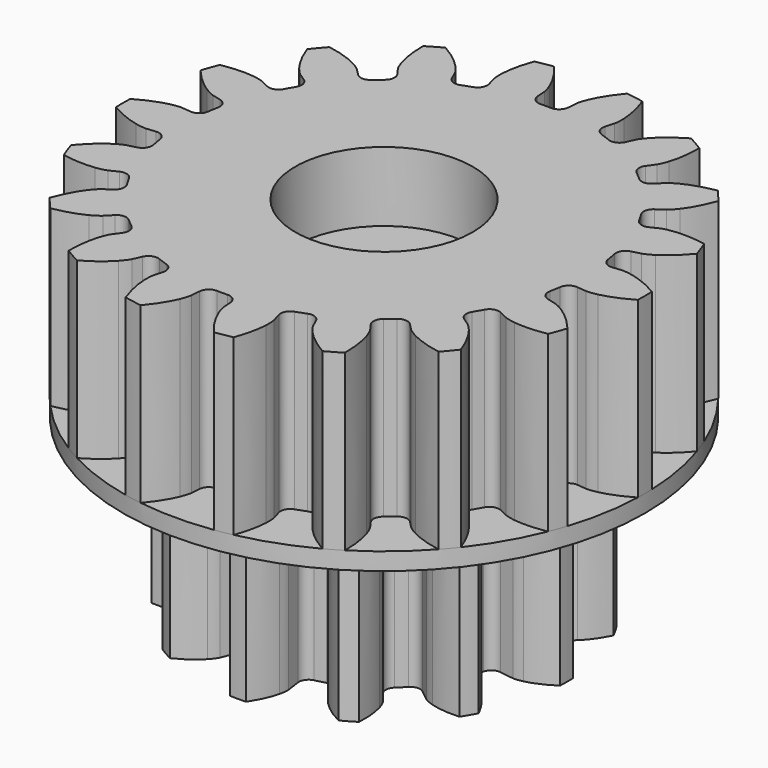
from build123d import *

# Parameters (mm, degrees)
PAD006_DEPTH    = 10
SKETCH009_R     = 15
PAD004_DEPTH    = 1
PAD005_DEPTH    = 10
SKETCH010_R     = 1.7
POCKET005_DEPTH = 16.7
SKETCH011_R     = 5.1
POCKET006_DEPTH = 4
SKETCH012_R     = 5.1
POCKET007_DEPTH = 4


with BuildPart() as pad004:
    # InvoluteGear001 → Pad006 (new body)
    with BuildSketch(Plane.XY):
        with BuildLine():
            Line((7.585543, -1.113908), (8.391342, -1.230997))
            add(Edge.make_bspline(
                [(8.391342, -1.230997), (8.453372, -1.235413), (8.639606, -1.239539), (8.952693, -1.168255)],
                knots=[0, 0, 0, 0, 1, 1, 1, 1], degree=3))
            add(Edge.make_bspline(
                [(8.952693, -1.168255), (9.32537, -1.081215), (9.856035, -0.88794), (10.49177, -0.464635)],
                knots=[0, 0, 0, 0, 1, 1, 1, 1], degree=3))
            ThreePointArc((10.49177, -0.464635), (10.502056, 0), (10.49177, 0.464635))
            add(Edge.make_bspline(
                [(10.49177, 0.464635), (9.856035, 0.88794), (9.32537, 1.081215), (8.952693, 1.168255)],
                knots=[0, 0, 0, 0, 1, 1, 1, 1], degree=3))
            add(Edge.make_bspline(
                [(8.952693, 1.168255), (8.639606, 1.239539), (8.453372, 1.235413), (8.391342, 1.230997)],
                knots=[0, 0, 0, 0, 1, 1, 1, 1], degree=3))
            Line((8.391342, 1.230997), (7.585543, 1.113908))
            ThreePointArc((7.585543, 1.113908), (7.1854, 1.20674), (6.955061, 1.546852))
            ThreePointArc((6.955061, 1.546852), (6.882222, 1.844086), (6.796685, 2.137918))
            ThreePointArc((6.796685, 2.137918), (6.826109, 2.547633), (7.126227, 2.828099))
            Line((7.126227, 2.828099), (7.882613, 3.129596))
            add(Edge.make_bspline(
                [(7.882613, 3.129596), (7.938542, 3.156787), (8.101888, 3.246331), (8.337387, 3.464608)],
                knots=[0, 0, 0, 0, 1, 1, 1, 1], degree=3))
            add(Edge.make_bspline(
                [(8.337387, 3.464608), (8.616615, 3.726326), (8.979547, 4.159039), (9.318457, 4.8435)],
                knots=[0, 0, 0, 0, 1, 1, 1, 1], degree=3))
            ThreePointArc((9.318457, 4.8435), (9.095047, 5.251028), (8.853822, 5.648271))
            add(Edge.make_bspline(
                [(8.853822, 5.648271), (8.091607, 5.696996), (7.5354, 5.599044), (7.169132, 5.488085)],
                knots=[0, 0, 0, 0, 1, 1, 1, 1], degree=3))
            add(Edge.make_bspline(
                [(7.169132, 5.488085), (6.862349, 5.393276), (6.703128, 5.296585), (6.651617, 5.261745)],
                knots=[0, 0, 0, 0, 1, 1, 1, 1], degree=3))
            Line((6.651617, 5.261745), (6.012319, 4.757444))
            ThreePointArc((6.012319, 4.757444), (5.619369, 4.637767), (5.249834, 4.817143))
            ThreePointArc((5.249834, 4.817143), (5.038136, 5.038136), (4.817143, 5.249834))
            ThreePointArc((4.817143, 5.249834), (4.637767, 5.619369), (4.757444, 6.012319))
            Line((4.757444, 6.012319), (5.261745, 6.651617))
            add(Edge.make_bspline(
                [(5.261745, 6.651617), (5.296585, 6.703128), (5.393276, 6.862349), (5.488085, 7.169132)],
                knots=[0, 0, 0, 0, 1, 1, 1, 1], degree=3))
            add(Edge.make_bspline(
                [(5.488085, 7.169132), (5.599044, 7.5354), (5.696996, 8.091607), (5.648271, 8.853822)],
                knots=[0, 0, 0, 0, 1, 1, 1, 1], degree=3))
            ThreePointArc((5.648271, 8.853822), (5.251028, 9.095047), (4.8435, 9.318457))
            add(Edge.make_bspline(
                [(4.8435, 9.318457), (4.159039, 8.979547), (3.726326, 8.616615), (3.464608, 8.337387)],
                knots=[0, 0, 0, 0, 1, 1, 1, 1], degree=3))
            add(Edge.make_bspline(
                [(3.464608, 8.337387), (3.246331, 8.101888), (3.156787, 7.938542), (3.129596, 7.882613)],
                knots=[0, 0, 0, 0, 1, 1, 1, 1], degree=3))
            Line((3.129596, 7.882613), (2.828099, 7.126227))
            ThreePointArc((2.828099, 7.126227), (2.547633, 6.826109), (2.137918, 6.796685))
            ThreePointArc((2.137918, 6.796685), (1.844086, 6.882222), (1.546852, 6.955061))
            ThreePointArc((1.546852, 6.955061), (1.20674, 7.1854), (1.113908, 7.585543))
            Line((1.113908, 7.585543), (1.230997, 8.391342))
            add(Edge.make_bspline(
                [(1.230997, 8.391342), (1.235413, 8.453372), (1.239539, 8.639606), (1.168255, 8.952693)],
                knots=[0, 0, 0, 0, 1, 1, 1, 1], degree=3))
            add(Edge.make_bspline(
                [(1.168255, 8.952693), (1.081215, 9.32537), (0.88794, 9.856035), (0.464635, 10.49177)],
                knots=[0, 0, 0, 0, 1, 1, 1, 1], degree=3))
            ThreePointArc((0.464635, 10.49177), (0, 10.502056), (-0.464635, 10.49177))
            add(Edge.make_bspline(
                [(-0.464635, 10.49177), (-0.88794, 9.856035), (-1.081215, 9.32537), (-1.168255, 8.952693)],
                knots=[0, 0, 0, 0, 1, 1, 1, 1], degree=3))
            add(Edge.make_bspline(
                [(-1.168255, 8.952693), (-1.239539, 8.639606), (-1.235413, 8.453372), (-1.230997, 8.391342)],
                knots=[0, 0, 0, 0, 1, 1, 1, 1], degree=3))
            Line((-1.230997, 8.391342), (-1.113908, 7.585543))
            ThreePointArc((-1.113908, 7.585543), (-1.20674, 7.1854), (-1.546852, 6.955061))
            ThreePointArc((-1.546852, 6.955061), (-1.844086, 6.882222), (-2.137918, 6.796685))
            ThreePointArc((-2.137918, 6.796685), (-2.547633, 6.826109), (-2.828099, 7.126227))
            Line((-2.828099, 7.126227), (-3.129596, 7.882613))
            add(Edge.make_bspline(
                [(-3.129596, 7.882613), (-3.156787, 7.938542), (-3.246331, 8.101888), (-3.464608, 8.337387)],
                knots=[0, 0, 0, 0, 1, 1, 1, 1], degree=3))
            add(Edge.make_bspline(
                [(-3.464608, 8.337387), (-3.726326, 8.616615), (-4.159039, 8.979547), (-4.8435, 9.318457)],
                knots=[0, 0, 0, 0, 1, 1, 1, 1], degree=3))
            ThreePointArc((-4.8435, 9.318457), (-5.251028, 9.095047), (-5.648271, 8.853822))
            add(Edge.make_bspline(
                [(-5.648271, 8.853822), (-5.696996, 8.091607), (-5.599044, 7.5354), (-5.488085, 7.169132)],
                knots=[0, 0, 0, 0, 1, 1, 1, 1], degree=3))
            add(Edge.make_bspline(
                [(-5.488085, 7.169132), (-5.393276, 6.862349), (-5.296585, 6.703128), (-5.261745, 6.651617)],
                knots=[0, 0, 0, 0, 1, 1, 1, 1], degree=3))
            Line((-5.261745, 6.651617), (-4.757444, 6.012319))
            ThreePointArc((-4.757444, 6.012319), (-4.637767, 5.619369), (-4.817143, 5.249834))
            ThreePointArc((-4.817143, 5.249834), (-5.038136, 5.038136), (-5.249834, 4.817143))
            ThreePointArc((-5.249834, 4.817143), (-5.619369, 4.637767), (-6.012319, 4.757444))
            Line((-6.012319, 4.757444), (-6.651617, 5.261745))
            add(Edge.make_bspline(
                [(-6.651617, 5.261745), (-6.703128, 5.296585), (-6.862349, 5.393276), (-7.169132, 5.488085)],
                knots=[0, 0, 0, 0, 1, 1, 1, 1], degree=3))
            add(Edge.make_bspline(
                [(-7.169132, 5.488085), (-7.5354, 5.599044), (-8.091607, 5.696996), (-8.853822, 5.648271)],
                knots=[0, 0, 0, 0, 1, 1, 1, 1], degree=3))
            ThreePointArc((-8.853822, 5.648271), (-9.095047, 5.251028), (-9.318457, 4.8435))
            add(Edge.make_bspline(
                [(-9.318457, 4.8435), (-8.979547, 4.159039), (-8.616615, 3.726326), (-8.337387, 3.464608)],
                knots=[0, 0, 0, 0, 1, 1, 1, 1], degree=3))
            add(Edge.make_bspline(
                [(-8.337387, 3.464608), (-8.101888, 3.246331), (-7.938542, 3.156787), (-7.882613, 3.129596)],
                knots=[0, 0, 0, 0, 1, 1, 1, 1], degree=3))
            Line((-7.882613, 3.129596), (-7.126227, 2.828099))
            ThreePointArc((-7.126227, 2.828099), (-6.826109, 2.547633), (-6.796685, 2.137918))
            ThreePointArc((-6.796685, 2.137918), (-6.882222, 1.844086), (-6.955061, 1.546852))
            ThreePointArc((-6.955061, 1.546852), (-7.1854, 1.20674), (-7.585543, 1.113908))
            Line((-7.585543, 1.113908), (-8.391342, 1.230997))
            add(Edge.make_bspline(
                [(-8.391342, 1.230997), (-8.453372, 1.235413), (-8.639606, 1.239539), (-8.952693, 1.168255)],
                knots=[0, 0, 0, 0, 1, 1, 1, 1], degree=3))
            add(Edge.make_bspline(
                [(-8.952693, 1.168255), (-9.32537, 1.081215), (-9.856035, 0.88794), (-10.49177, 0.464635)],
                knots=[0, 0, 0, 0, 1, 1, 1, 1], degree=3))
            ThreePointArc((-10.49177, 0.464635), (-10.502056, 0), (-10.49177, -0.464635))
            add(Edge.make_bspline(
                [(-10.49177, -0.464635), (-9.856035, -0.88794), (-9.32537, -1.081215), (-8.952693, -1.168255)],
                knots=[0, 0, 0, 0, 1, 1, 1, 1], degree=3))
            add(Edge.make_bspline(
                [(-8.952693, -1.168255), (-8.639606, -1.239539), (-8.453372, -1.235413), (-8.391342, -1.230997)],
                knots=[0, 0, 0, 0, 1, 1, 1, 1], degree=3))
            Line((-8.391342, -1.230997), (-7.585543, -1.113908))
            ThreePointArc((-7.585543, -1.113908), (-7.1854, -1.20674), (-6.955061, -1.546852))
            ThreePointArc((-6.955061, -1.546852), (-6.882222, -1.844086), (-6.796685, -2.137918))
            ThreePointArc((-6.796685, -2.137918), (-6.826109, -2.547633), (-7.126227, -2.828099))
            Line((-7.126227, -2.828099), (-7.882613, -3.129596))
            add(Edge.make_bspline(
                [(-7.882613, -3.129596), (-7.938542, -3.156787), (-8.101888, -3.246331), (-8.337387, -3.464608)],
                knots=[0, 0, 0, 0, 1, 1, 1, 1], degree=3))
            add(Edge.make_bspline(
                [(-8.337387, -3.464608), (-8.616615, -3.726326), (-8.979547, -4.159039), (-9.318457, -4.8435)],
                knots=[0, 0, 0, 0, 1, 1, 1, 1], degree=3))
            ThreePointArc((-9.318457, -4.8435), (-9.095047, -5.251028), (-8.853822, -5.648271))
            add(Edge.make_bspline(
                [(-8.853822, -5.648271), (-8.091607, -5.696996), (-7.5354, -5.599044), (-7.169132, -5.488085)],
                knots=[0, 0, 0, 0, 1, 1, 1, 1], degree=3))
            add(Edge.make_bspline(
                [(-7.169132, -5.488085), (-6.862349, -5.393276), (-6.703128, -5.296585), (-6.651617, -5.261745)],
                knots=[0, 0, 0, 0, 1, 1, 1, 1], degree=3))
            Line((-6.651617, -5.261745), (-6.012319, -4.757444))
            ThreePointArc((-6.012319, -4.757444), (-5.619369, -4.637767), (-5.249834, -4.817143))
            ThreePointArc((-5.249834, -4.817143), (-5.038136, -5.038136), (-4.817143, -5.249834))
            ThreePointArc((-4.817143, -5.249834), (-4.637767, -5.619369), (-4.757444, -6.012319))
            Line((-4.757444, -6.012319), (-5.261745, -6.651617))
            add(Edge.make_bspline(
                [(-5.261745, -6.651617), (-5.296585, -6.703128), (-5.393276, -6.862349), (-5.488085, -7.169132)],
                knots=[0, 0, 0, 0, 1, 1, 1, 1], degree=3))
            add(Edge.make_bspline(
                [(-5.488085, -7.169132), (-5.599044, -7.5354), (-5.696996, -8.091607), (-5.648271, -8.853822)],
                knots=[0, 0, 0, 0, 1, 1, 1, 1], degree=3))
            ThreePointArc((-5.648271, -8.853822), (-5.251028, -9.095047), (-4.8435, -9.318457))
            add(Edge.make_bspline(
                [(-4.8435, -9.318457), (-4.159039, -8.979547), (-3.726326, -8.616615), (-3.464608, -8.337387)],
                knots=[0, 0, 0, 0, 1, 1, 1, 1], degree=3))
            add(Edge.make_bspline(
                [(-3.464608, -8.337387), (-3.246331, -8.101888), (-3.156787, -7.938542), (-3.129596, -7.882613)],
                knots=[0, 0, 0, 0, 1, 1, 1, 1], degree=3))
            Line((-3.129596, -7.882613), (-2.828099, -7.126227))
            ThreePointArc((-2.828099, -7.126227), (-2.547633, -6.826109), (-2.137918, -6.796685))
            ThreePointArc((-2.137918, -6.796685), (-1.844086, -6.882222), (-1.546852, -6.955061))
            ThreePointArc((-1.546852, -6.955061), (-1.20674, -7.1854), (-1.113908, -7.585543))
            Line((-1.113908, -7.585543), (-1.230997, -8.391342))
            add(Edge.make_bspline(
                [(-1.230997, -8.391342), (-1.235413, -8.453372), (-1.239539, -8.639606), (-1.168255, -8.952693)],
                knots=[0, 0, 0, 0, 1, 1, 1, 1], degree=3))
            add(Edge.make_bspline(
                [(-1.168255, -8.952693), (-1.081215, -9.32537), (-0.88794, -9.856035), (-0.464635, -10.49177)],
                knots=[0, 0, 0, 0, 1, 1, 1, 1], degree=3))
            ThreePointArc((-0.464635, -10.49177), (0, -10.502056), (0.464635, -10.49177))
            add(Edge.make_bspline(
                [(0.464635, -10.49177), (0.88794, -9.856035), (1.081215, -9.32537), (1.168255, -8.952693)],
                knots=[0, 0, 0, 0, 1, 1, 1, 1], degree=3))
            add(Edge.make_bspline(
                [(1.168255, -8.952693), (1.239539, -8.639606), (1.235413, -8.453372), (1.230997, -8.391342)],
                knots=[0, 0, 0, 0, 1, 1, 1, 1], degree=3))
            Line((1.230997, -8.391342), (1.113908, -7.585543))
            ThreePointArc((1.113908, -7.585543), (1.20674, -7.1854), (1.546852, -6.955061))
            ThreePointArc((1.546852, -6.955061), (1.844086, -6.882222), (2.137918, -6.796685))
            ThreePointArc((2.137918, -6.796685), (2.547633, -6.826109), (2.828099, -7.126227))
            Line((2.828099, -7.126227), (3.129596, -7.882613))
            add(Edge.make_bspline(
                [(3.129596, -7.882613), (3.156787, -7.938542), (3.246331, -8.101888), (3.464608, -8.337387)],
                knots=[0, 0, 0, 0, 1, 1, 1, 1], degree=3))
            add(Edge.make_bspline(
                [(3.464608, -8.337387), (3.726326, -8.616615), (4.159039, -8.979547), (4.8435, -9.318457)],
                knots=[0, 0, 0, 0, 1, 1, 1, 1], degree=3))
            ThreePointArc((4.8435, -9.318457), (5.251028, -9.095047), (5.648271, -8.853822))
            add(Edge.make_bspline(
                [(5.648271, -8.853822), (5.696996, -8.091607), (5.599044, -7.5354), (5.488085, -7.169132)],
                knots=[0, 0, 0, 0, 1, 1, 1, 1], degree=3))
            add(Edge.make_bspline(
                [(5.488085, -7.169132), (5.393276, -6.862349), (5.296585, -6.703128), (5.261745, -6.651617)],
                knots=[0, 0, 0, 0, 1, 1, 1, 1], degree=3))
            Line((5.261745, -6.651617), (4.757444, -6.012319))
            ThreePointArc((4.757444, -6.012319), (4.637767, -5.619369), (4.817143, -5.249834))
            ThreePointArc((4.817143, -5.249834), (5.038136, -5.038136), (5.249834, -4.817143))
            ThreePointArc((5.249834, -4.817143), (5.619369, -4.637767), (6.012319, -4.757444))
            Line((6.012319, -4.757444), (6.651617, -5.261745))
            add(Edge.make_bspline(
                [(6.651617, -5.261745), (6.703128, -5.296585), (6.862349, -5.393276), (7.169132, -5.488085)],
                knots=[0, 0, 0, 0, 1, 1, 1, 1], degree=3))
            add(Edge.make_bspline(
                [(7.169132, -5.488085), (7.5354, -5.599044), (8.091607, -5.696996), (8.853822, -5.648271)],
                knots=[0, 0, 0, 0, 1, 1, 1, 1], degree=3))
            ThreePointArc((8.853822, -5.648271), (9.095047, -5.251028), (9.318457, -4.8435))
            add(Edge.make_bspline(
                [(9.318457, -4.8435), (8.979547, -4.159039), (8.616615, -3.726326), (8.337387, -3.464608)],
                knots=[0, 0, 0, 0, 1, 1, 1, 1], degree=3))
            add(Edge.make_bspline(
                [(8.337387, -3.464608), (8.101888, -3.246331), (7.938542, -3.156787), (7.882613, -3.129596)],
                knots=[0, 0, 0, 0, 1, 1, 1, 1], degree=3))
            Line((7.882613, -3.129596), (7.126227, -2.828099))
            ThreePointArc((7.126227, -2.828099), (6.826109, -2.547633), (6.796685, -2.137918))
            ThreePointArc((6.796685, -2.137918), (6.882222, -1.844086), (6.955061, -1.546852))
            ThreePointArc((6.955061, -1.546852), (7.1854, -1.20674), (7.585543, -1.113908))
        make_face()
    extrude(amount=-PAD006_DEPTH)

    # Sketch009 → Pad004 (new body)
    with BuildSketch(Plane.XY):
        Circle(SKETCH009_R)
    extrude(amount=PAD004_DEPTH)


with BuildPart() as pocket007:
    # InvoluteGear → Pad005 (new body)
    with BuildSketch(Plane.XY.offset(1)):
        with BuildLine():
            Line((12.111023, -1.241717), (12.645761, -1.295402))
            add(Edge.make_bspline(
                [(12.645761, -1.295402), (12.714302, -1.298033), (12.920518, -1.29727), (13.264938, -1.221824)],
                knots=[0, 0, 0, 0, 1, 1, 1, 1], degree=3))
            add(Edge.make_bspline(
                [(13.264938, -1.221824), (13.676607, -1.130119), (14.26795, -0.932555), (14.993012, -0.510488)],
                knots=[0, 0, 0, 0, 1, 1, 1, 1], degree=3))
            ThreePointArc((14.993012, -0.510488), (15.001701, 0), (14.993012, 0.510488))
            add(Edge.make_bspline(
                [(14.993012, 0.510488), (14.26795, 0.932555), (13.676607, 1.130119), (13.264938, 1.221824)],
                knots=[0, 0, 0, 0, 1, 1, 1, 1], degree=3))
            add(Edge.make_bspline(
                [(13.264938, 1.221824), (12.920518, 1.29727), (12.714302, 1.298033), (12.645761, 1.295402)],
                knots=[0, 0, 0, 0, 1, 1, 1, 1], degree=3))
            Line((12.645761, 1.295402), (12.111023, 1.241717))
            ThreePointArc((12.111023, 1.241717), (11.708936, 1.356787), (11.497414, 1.717583))
            ThreePointArc((11.497414, 1.717583), (11.44839, 2.01866), (11.391483, 2.318347))
            ThreePointArc((11.391483, 2.318347), (11.46685, 2.729729), (11.805332, 2.975381))
            Line((11.805332, 2.975381), (12.326182, 3.107825))
            add(Edge.make_bspline(
                [(12.326182, 3.107825), (12.391489, 3.128796), (12.585008, 3.200042), (12.882853, 3.388737)],
                knots=[0, 0, 0, 0, 1, 1, 1, 1], degree=3))
            add(Edge.make_bspline(
                [(12.882853, 3.388737), (13.238331, 3.615711), (13.72644, 4.003611), (14.26342, 4.64821)],
                knots=[0, 0, 0, 0, 1, 1, 1, 1], degree=3))
            ThreePointArc((14.26342, 4.64821), (14.096988, 5.130884), (13.914226, 5.607614))
            add(Edge.make_bspline(
                [(13.914226, 5.607614), (13.088535, 5.756242), (12.465284, 5.73964), (12.047076, 5.685015)],
                knots=[0, 0, 0, 0, 1, 1, 1, 1], degree=3))
            add(Edge.make_bspline(
                [(12.047076, 5.685015), (11.697623, 5.638113), (11.503582, 5.568299), (11.440074, 5.542385)],
                knots=[0, 0, 0, 0, 1, 1, 1, 1], degree=3))
            Line((11.440074, 5.542385), (10.955947, 5.309046))
            ThreePointArc((10.955947, 5.309046), (10.538753, 5.279655), (10.216587, 5.546347))
            ThreePointArc((10.216587, 5.546347), (10.067545, 5.8125), (9.911571, 6.074651))
            ThreePointArc((9.911571, 6.074651), (9.841692, 6.487), (10.075743, 6.833605))
            Line((10.075743, 6.833605), (10.519883, 7.136202))
            add(Edge.make_bspline(
                [(10.519883, 7.136202), (10.57408, 7.178245), (10.73156, 7.311383), (10.946905, 7.590566)],
                knots=[0, 0, 0, 0, 1, 1, 1, 1], degree=3))
            add(Edge.make_bspline(
                [(10.946905, 7.590566), (11.203316, 7.925433), (11.529319, 8.456883), (11.813449, 9.246266)],
                knots=[0, 0, 0, 0, 1, 1, 1, 1], degree=3))
            ThreePointArc((11.813449, 9.246266), (11.49197, 9.642908), (11.157178, 10.028379))
            add(Edge.make_bspline(
                [(11.157178, 10.028379), (10.330449, 9.885641), (9.750463, 9.656875), (9.376159, 9.462509)],
                knots=[0, 0, 0, 0, 1, 1, 1, 1], degree=3))
            add(Edge.make_bspline(
                [(9.376159, 9.462509), (9.063822, 9.298916), (8.905361, 9.166947), (8.854546, 9.120874)],
                knots=[0, 0, 0, 0, 1, 1, 1, 1], degree=3))
            Line((8.854546, 9.120874), (8.479422, 8.736026))
            ThreePointArc((8.479422, 8.736026), (8.09744, 8.565718), (7.703489, 8.70614))
            ThreePointArc((7.703489, 8.70614), (7.472406, 8.905267), (7.236177, 9.098261))
            ThreePointArc((7.236177, 9.098261), (7.02948, 9.461843), (7.13087, 9.867595))
            Line((7.13087, 9.867595), (7.444732, 10.303849))
            add(Edge.make_bspline(
                [(7.444732, 10.303849), (7.48128, 10.361892), (7.583728, 10.540862), (7.690599, 10.876861)],
                knots=[0, 0, 0, 0, 1, 1, 1, 1], degree=3))
            add(Edge.make_bspline(
                [(7.690599, 10.876861), (7.817015, 11.27923), (7.941592, 11.89013), (7.938602, 12.729085)],
                knots=[0, 0, 0, 0, 1, 1, 1, 1], degree=3))
            ThreePointArc((7.938602, 12.729085), (7.500851, 12.991854), (7.05441, 13.239573))
            add(Edge.make_bspline(
                [(7.05441, 13.239573), (6.326359, 12.822685), (5.859592, 12.409349), (5.574338, 12.098685)],
                knots=[0, 0, 0, 0, 1, 1, 1, 1], degree=3))
            add(Edge.make_bspline(
                [(5.574338, 12.098685), (5.33679, 11.838132), (5.233022, 11.659925), (5.201029, 11.599251)],
                knots=[0, 0, 0, 0, 1, 1, 1, 1], degree=3))
            Line((5.201029, 11.599251), (4.980153, 11.109313))
            ThreePointArc((4.980153, 11.109313), (4.679456, 10.81863), (4.261237, 10.815844))
            ThreePointArc((4.261237, 10.815844), (3.975984, 10.923927), (3.687994, 11.024488))
            ThreePointArc((3.687994, 11.024488), (3.36941, 11.295448), (3.32591, 11.711408))
            Line((3.32591, 11.711408), (3.471636, 12.228699))
            add(Edge.make_bspline(
                [(3.471636, 12.228699), (3.486128, 12.295742), (3.521186, 12.498958), (3.506694, 12.851246)],
                knots=[0, 0, 0, 0, 1, 1, 1, 1], degree=3))
            add(Edge.make_bspline(
                [(3.506694, 12.851246), (3.487868, 13.272586), (3.395991, 13.889252), (3.106242, 14.676589)],
                knots=[0, 0, 0, 0, 1, 1, 1, 1], degree=3))
            ThreePointArc((3.106242, 14.676589), (2.605018, 14.773792), (2.100777, 14.85388))
            add(Edge.make_bspline(
                [(2.100777, 14.85388), (1.559216, 14.213125), (1.261968, 13.665072), (1.100171, 13.275581)],
                knots=[0, 0, 0, 0, 1, 1, 1, 1], degree=3))
            add(Edge.make_bspline(
                [(1.100171, 13.275581), (0.966063, 12.949495), (0.929503, 12.746544), (0.920191, 12.678587)],
                knots=[0, 0, 0, 0, 1, 1, 1, 1], degree=3))
            Line((0.920191, 12.678587), (0.880204, 12.142652))
            ThreePointArc((0.880204, 12.142652), (0.697061, 11.766655), (0.305016, 11.620998))
            ThreePointArc((0.305016, 11.620998), (0, 11.625), (-0.305016, 11.620998))
            ThreePointArc((-0.305016, 11.620998), (-0.697061, 11.766655), (-0.880204, 12.142652))
            Line((-0.880204, 12.142652), (-0.920191, 12.678587))
            add(Edge.make_bspline(
                [(-0.920191, 12.678587), (-0.929503, 12.746544), (-0.966063, 12.949495), (-1.100171, 13.275581)],
                knots=[0, 0, 0, 0, 1, 1, 1, 1], degree=3))
            add(Edge.make_bspline(
                [(-1.100171, 13.275581), (-1.261968, 13.665072), (-1.559216, 14.213125), (-2.100777, 14.85388)],
                knots=[0, 0, 0, 0, 1, 1, 1, 1], degree=3))
            ThreePointArc((-2.100777, 14.85388), (-2.605018, 14.773792), (-3.106242, 14.676589))
            add(Edge.make_bspline(
                [(-3.106242, 14.676589), (-3.395991, 13.889252), (-3.487868, 13.272586), (-3.506694, 12.851246)],
                knots=[0, 0, 0, 0, 1, 1, 1, 1], degree=3))
            add(Edge.make_bspline(
                [(-3.506694, 12.851246), (-3.521186, 12.498958), (-3.486128, 12.295742), (-3.471636, 12.228699)],
                knots=[0, 0, 0, 0, 1, 1, 1, 1], degree=3))
            Line((-3.471636, 12.228699), (-3.32591, 11.711408))
            ThreePointArc((-3.32591, 11.711408), (-3.36941, 11.295448), (-3.687994, 11.024488))
            ThreePointArc((-3.687994, 11.024488), (-3.975984, 10.923927), (-4.261237, 10.815844))
            ThreePointArc((-4.261237, 10.815844), (-4.679456, 10.81863), (-4.980153, 11.109313))
            Line((-4.980153, 11.109313), (-5.201029, 11.599251))
            add(Edge.make_bspline(
                [(-5.201029, 11.599251), (-5.233022, 11.659925), (-5.33679, 11.838132), (-5.574338, 12.098685)],
                knots=[0, 0, 0, 0, 1, 1, 1, 1], degree=3))
            add(Edge.make_bspline(
                [(-5.574338, 12.098685), (-5.859592, 12.409349), (-6.326359, 12.822685), (-7.05441, 13.239573)],
                knots=[0, 0, 0, 0, 1, 1, 1, 1], degree=3))
            ThreePointArc((-7.05441, 13.239573), (-7.500851, 12.991854), (-7.938602, 12.729085))
            add(Edge.make_bspline(
                [(-7.938602, 12.729085), (-7.941592, 11.89013), (-7.817015, 11.27923), (-7.690599, 10.876861)],
                knots=[0, 0, 0, 0, 1, 1, 1, 1], degree=3))
            add(Edge.make_bspline(
                [(-7.690599, 10.876861), (-7.583728, 10.540862), (-7.48128, 10.361892), (-7.444732, 10.303849)],
                knots=[0, 0, 0, 0, 1, 1, 1, 1], degree=3))
            Line((-7.444732, 10.303849), (-7.13087, 9.867595))
            ThreePointArc((-7.13087, 9.867595), (-7.02948, 9.461843), (-7.236177, 9.098261))
            ThreePointArc((-7.236177, 9.098261), (-7.472406, 8.905267), (-7.703489, 8.70614))
            ThreePointArc((-7.703489, 8.70614), (-8.09744, 8.565718), (-8.479422, 8.736026))
            Line((-8.479422, 8.736026), (-8.854546, 9.120874))
            add(Edge.make_bspline(
                [(-8.854546, 9.120874), (-8.905361, 9.166947), (-9.063822, 9.298916), (-9.376159, 9.462509)],
                knots=[0, 0, 0, 0, 1, 1, 1, 1], degree=3))
            add(Edge.make_bspline(
                [(-9.376159, 9.462509), (-9.750463, 9.656875), (-10.330449, 9.885641), (-11.157178, 10.028379)],
                knots=[0, 0, 0, 0, 1, 1, 1, 1], degree=3))
            ThreePointArc((-11.157178, 10.028379), (-11.49197, 9.642908), (-11.813449, 9.246266))
            add(Edge.make_bspline(
                [(-11.813449, 9.246266), (-11.529319, 8.456883), (-11.203316, 7.925433), (-10.946905, 7.590566)],
                knots=[0, 0, 0, 0, 1, 1, 1, 1], degree=3))
            add(Edge.make_bspline(
                [(-10.946905, 7.590566), (-10.73156, 7.311383), (-10.57408, 7.178245), (-10.519883, 7.136202)],
                knots=[0, 0, 0, 0, 1, 1, 1, 1], degree=3))
            Line((-10.519883, 7.136202), (-10.075743, 6.833605))
            ThreePointArc((-10.075743, 6.833605), (-9.841692, 6.487), (-9.911571, 6.074651))
            ThreePointArc((-9.911571, 6.074651), (-10.067545, 5.8125), (-10.216587, 5.546347))
            ThreePointArc((-10.216587, 5.546347), (-10.538753, 5.279655), (-10.955947, 5.309046))
            Line((-10.955947, 5.309046), (-11.440074, 5.542385))
            add(Edge.make_bspline(
                [(-11.440074, 5.542385), (-11.503582, 5.568299), (-11.697623, 5.638113), (-12.047076, 5.685015)],
                knots=[0, 0, 0, 0, 1, 1, 1, 1], degree=3))
            add(Edge.make_bspline(
                [(-12.047076, 5.685015), (-12.465284, 5.73964), (-13.088535, 5.756242), (-13.914226, 5.607614)],
                knots=[0, 0, 0, 0, 1, 1, 1, 1], degree=3))
            ThreePointArc((-13.914226, 5.607614), (-14.096988, 5.130884), (-14.26342, 4.64821))
            add(Edge.make_bspline(
                [(-14.26342, 4.64821), (-13.72644, 4.003611), (-13.238331, 3.615711), (-12.882853, 3.388737)],
                knots=[0, 0, 0, 0, 1, 1, 1, 1], degree=3))
            add(Edge.make_bspline(
                [(-12.882853, 3.388737), (-12.585008, 3.200042), (-12.391489, 3.128796), (-12.326182, 3.107825)],
                knots=[0, 0, 0, 0, 1, 1, 1, 1], degree=3))
            Line((-12.326182, 3.107825), (-11.805332, 2.975381))
            ThreePointArc((-11.805332, 2.975381), (-11.46685, 2.729729), (-11.391483, 2.318347))
            ThreePointArc((-11.391483, 2.318347), (-11.44839, 2.01866), (-11.497414, 1.717583))
            ThreePointArc((-11.497414, 1.717583), (-11.708936, 1.356787), (-12.111023, 1.241717))
            Line((-12.111023, 1.241717), (-12.645761, 1.295402))
            add(Edge.make_bspline(
                [(-12.645761, 1.295402), (-12.714302, 1.298033), (-12.920518, 1.29727), (-13.264938, 1.221824)],
                knots=[0, 0, 0, 0, 1, 1, 1, 1], degree=3))
            add(Edge.make_bspline(
                [(-13.264938, 1.221824), (-13.676607, 1.130119), (-14.26795, 0.932555), (-14.993012, 0.510488)],
                knots=[0, 0, 0, 0, 1, 1, 1, 1], degree=3))
            ThreePointArc((-14.993012, 0.510488), (-15.001701, 0), (-14.993012, -0.510488))
            add(Edge.make_bspline(
                [(-14.993012, -0.510488), (-14.26795, -0.932555), (-13.676607, -1.130119), (-13.264938, -1.221824)],
                knots=[0, 0, 0, 0, 1, 1, 1, 1], degree=3))
            add(Edge.make_bspline(
                [(-13.264938, -1.221824), (-12.920518, -1.29727), (-12.714302, -1.298033), (-12.645761, -1.295402)],
                knots=[0, 0, 0, 0, 1, 1, 1, 1], degree=3))
            Line((-12.645761, -1.295402), (-12.111023, -1.241717))
            ThreePointArc((-12.111023, -1.241717), (-11.708936, -1.356787), (-11.497414, -1.717583))
            ThreePointArc((-11.497414, -1.717583), (-11.44839, -2.01866), (-11.391483, -2.318347))
            ThreePointArc((-11.391483, -2.318347), (-11.46685, -2.729729), (-11.805332, -2.975381))
            Line((-11.805332, -2.975381), (-12.326182, -3.107825))
            add(Edge.make_bspline(
                [(-12.326182, -3.107825), (-12.391489, -3.128796), (-12.585008, -3.200042), (-12.882853, -3.388737)],
                knots=[0, 0, 0, 0, 1, 1, 1, 1], degree=3))
            add(Edge.make_bspline(
                [(-12.882853, -3.388737), (-13.238331, -3.615711), (-13.72644, -4.003611), (-14.26342, -4.64821)],
                knots=[0, 0, 0, 0, 1, 1, 1, 1], degree=3))
            ThreePointArc((-14.26342, -4.64821), (-14.096988, -5.130884), (-13.914226, -5.607614))
            add(Edge.make_bspline(
                [(-13.914226, -5.607614), (-13.088535, -5.756242), (-12.465284, -5.73964), (-12.047076, -5.685015)],
                knots=[0, 0, 0, 0, 1, 1, 1, 1], degree=3))
            add(Edge.make_bspline(
                [(-12.047076, -5.685015), (-11.697623, -5.638113), (-11.503582, -5.568299), (-11.440074, -5.542385)],
                knots=[0, 0, 0, 0, 1, 1, 1, 1], degree=3))
            Line((-11.440074, -5.542385), (-10.955947, -5.309046))
            ThreePointArc((-10.955947, -5.309046), (-10.538753, -5.279655), (-10.216587, -5.546347))
            ThreePointArc((-10.216587, -5.546347), (-10.067545, -5.8125), (-9.911571, -6.074651))
            ThreePointArc((-9.911571, -6.074651), (-9.841692, -6.487), (-10.075743, -6.833605))
            Line((-10.075743, -6.833605), (-10.519883, -7.136202))
            add(Edge.make_bspline(
                [(-10.519883, -7.136202), (-10.57408, -7.178245), (-10.73156, -7.311383), (-10.946905, -7.590566)],
                knots=[0, 0, 0, 0, 1, 1, 1, 1], degree=3))
            add(Edge.make_bspline(
                [(-10.946905, -7.590566), (-11.203316, -7.925433), (-11.529319, -8.456883), (-11.813449, -9.246266)],
                knots=[0, 0, 0, 0, 1, 1, 1, 1], degree=3))
            ThreePointArc((-11.813449, -9.246266), (-11.49197, -9.642908), (-11.157178, -10.028379))
            add(Edge.make_bspline(
                [(-11.157178, -10.028379), (-10.330449, -9.885641), (-9.750463, -9.656875), (-9.376159, -9.462509)],
                knots=[0, 0, 0, 0, 1, 1, 1, 1], degree=3))
            add(Edge.make_bspline(
                [(-9.376159, -9.462509), (-9.063822, -9.298916), (-8.905361, -9.166947), (-8.854546, -9.120874)],
                knots=[0, 0, 0, 0, 1, 1, 1, 1], degree=3))
            Line((-8.854546, -9.120874), (-8.479422, -8.736026))
            ThreePointArc((-8.479422, -8.736026), (-8.09744, -8.565718), (-7.703489, -8.70614))
            ThreePointArc((-7.703489, -8.70614), (-7.472406, -8.905267), (-7.236177, -9.098261))
            ThreePointArc((-7.236177, -9.098261), (-7.02948, -9.461843), (-7.13087, -9.867595))
            Line((-7.13087, -9.867595), (-7.444732, -10.303849))
            add(Edge.make_bspline(
                [(-7.444732, -10.303849), (-7.48128, -10.361892), (-7.583728, -10.540862), (-7.690599, -10.876861)],
                knots=[0, 0, 0, 0, 1, 1, 1, 1], degree=3))
            add(Edge.make_bspline(
                [(-7.690599, -10.876861), (-7.817015, -11.27923), (-7.941592, -11.89013), (-7.938602, -12.729085)],
                knots=[0, 0, 0, 0, 1, 1, 1, 1], degree=3))
            ThreePointArc((-7.938602, -12.729085), (-7.500851, -12.991854), (-7.05441, -13.239573))
            add(Edge.make_bspline(
                [(-7.05441, -13.239573), (-6.326359, -12.822685), (-5.859592, -12.409349), (-5.574338, -12.098685)],
                knots=[0, 0, 0, 0, 1, 1, 1, 1], degree=3))
            add(Edge.make_bspline(
                [(-5.574338, -12.098685), (-5.33679, -11.838132), (-5.233022, -11.659925), (-5.201029, -11.599251)],
                knots=[0, 0, 0, 0, 1, 1, 1, 1], degree=3))
            Line((-5.201029, -11.599251), (-4.980153, -11.109313))
            ThreePointArc((-4.980153, -11.109313), (-4.679456, -10.81863), (-4.261237, -10.815844))
            ThreePointArc((-4.261237, -10.815844), (-3.975984, -10.923927), (-3.687994, -11.024488))
            ThreePointArc((-3.687994, -11.024488), (-3.36941, -11.295448), (-3.32591, -11.711408))
            Line((-3.32591, -11.711408), (-3.471636, -12.228699))
            add(Edge.make_bspline(
                [(-3.471636, -12.228699), (-3.486128, -12.295742), (-3.521186, -12.498958), (-3.506694, -12.851246)],
                knots=[0, 0, 0, 0, 1, 1, 1, 1], degree=3))
            add(Edge.make_bspline(
                [(-3.506694, -12.851246), (-3.487868, -13.272586), (-3.395991, -13.889252), (-3.106242, -14.676589)],
                knots=[0, 0, 0, 0, 1, 1, 1, 1], degree=3))
            ThreePointArc((-3.106242, -14.676589), (-2.605018, -14.773792), (-2.100777, -14.85388))
            add(Edge.make_bspline(
                [(-2.100777, -14.85388), (-1.559216, -14.213125), (-1.261968, -13.665072), (-1.100171, -13.275581)],
                knots=[0, 0, 0, 0, 1, 1, 1, 1], degree=3))
            add(Edge.make_bspline(
                [(-1.100171, -13.275581), (-0.966063, -12.949495), (-0.929503, -12.746544), (-0.920191, -12.678587)],
                knots=[0, 0, 0, 0, 1, 1, 1, 1], degree=3))
            Line((-0.920191, -12.678587), (-0.880204, -12.142652))
            ThreePointArc((-0.880204, -12.142652), (-0.697061, -11.766655), (-0.305016, -11.620998))
            ThreePointArc((-0.305016, -11.620998), (0, -11.625), (0.305016, -11.620998))
            ThreePointArc((0.305016, -11.620998), (0.697061, -11.766655), (0.880204, -12.142652))
            Line((0.880204, -12.142652), (0.920191, -12.678587))
            add(Edge.make_bspline(
                [(0.920191, -12.678587), (0.929503, -12.746544), (0.966063, -12.949495), (1.100171, -13.275581)],
                knots=[0, 0, 0, 0, 1, 1, 1, 1], degree=3))
            add(Edge.make_bspline(
                [(1.100171, -13.275581), (1.261968, -13.665072), (1.559216, -14.213125), (2.100777, -14.85388)],
                knots=[0, 0, 0, 0, 1, 1, 1, 1], degree=3))
            ThreePointArc((2.100777, -14.85388), (2.605018, -14.773792), (3.106242, -14.676589))
            add(Edge.make_bspline(
                [(3.106242, -14.676589), (3.395991, -13.889252), (3.487868, -13.272586), (3.506694, -12.851246)],
                knots=[0, 0, 0, 0, 1, 1, 1, 1], degree=3))
            add(Edge.make_bspline(
                [(3.506694, -12.851246), (3.521186, -12.498958), (3.486128, -12.295742), (3.471636, -12.228699)],
                knots=[0, 0, 0, 0, 1, 1, 1, 1], degree=3))
            Line((3.471636, -12.228699), (3.32591, -11.711408))
            ThreePointArc((3.32591, -11.711408), (3.36941, -11.295448), (3.687994, -11.024488))
            ThreePointArc((3.687994, -11.024488), (3.975984, -10.923927), (4.261237, -10.815844))
            ThreePointArc((4.261237, -10.815844), (4.679456, -10.81863), (4.980153, -11.109313))
            Line((4.980153, -11.109313), (5.201029, -11.599251))
            add(Edge.make_bspline(
                [(5.201029, -11.599251), (5.233022, -11.659925), (5.33679, -11.838132), (5.574338, -12.098685)],
                knots=[0, 0, 0, 0, 1, 1, 1, 1], degree=3))
            add(Edge.make_bspline(
                [(5.574338, -12.098685), (5.859592, -12.409349), (6.326359, -12.822685), (7.05441, -13.239573)],
                knots=[0, 0, 0, 0, 1, 1, 1, 1], degree=3))
            ThreePointArc((7.05441, -13.239573), (7.500851, -12.991854), (7.938602, -12.729085))
            add(Edge.make_bspline(
                [(7.938602, -12.729085), (7.941592, -11.89013), (7.817015, -11.27923), (7.690599, -10.876861)],
                knots=[0, 0, 0, 0, 1, 1, 1, 1], degree=3))
            add(Edge.make_bspline(
                [(7.690599, -10.876861), (7.583728, -10.540862), (7.48128, -10.361892), (7.444732, -10.303849)],
                knots=[0, 0, 0, 0, 1, 1, 1, 1], degree=3))
            Line((7.444732, -10.303849), (7.13087, -9.867595))
            ThreePointArc((7.13087, -9.867595), (7.02948, -9.461843), (7.236177, -9.098261))
            ThreePointArc((7.236177, -9.098261), (7.472406, -8.905267), (7.703489, -8.70614))
            ThreePointArc((7.703489, -8.70614), (8.09744, -8.565718), (8.479422, -8.736026))
            Line((8.479422, -8.736026), (8.854546, -9.120874))
            add(Edge.make_bspline(
                [(8.854546, -9.120874), (8.905361, -9.166947), (9.063822, -9.298916), (9.376159, -9.462509)],
                knots=[0, 0, 0, 0, 1, 1, 1, 1], degree=3))
            add(Edge.make_bspline(
                [(9.376159, -9.462509), (9.750463, -9.656875), (10.330449, -9.885641), (11.157178, -10.028379)],
                knots=[0, 0, 0, 0, 1, 1, 1, 1], degree=3))
            ThreePointArc((11.157178, -10.028379), (11.49197, -9.642908), (11.813449, -9.246266))
            add(Edge.make_bspline(
                [(11.813449, -9.246266), (11.529319, -8.456883), (11.203316, -7.925433), (10.946905, -7.590566)],
                knots=[0, 0, 0, 0, 1, 1, 1, 1], degree=3))
            add(Edge.make_bspline(
                [(10.946905, -7.590566), (10.73156, -7.311383), (10.57408, -7.178245), (10.519883, -7.136202)],
                knots=[0, 0, 0, 0, 1, 1, 1, 1], degree=3))
            Line((10.519883, -7.136202), (10.075743, -6.833605))
            ThreePointArc((10.075743, -6.833605), (9.841692, -6.487), (9.911571, -6.074651))
            ThreePointArc((9.911571, -6.074651), (10.067545, -5.8125), (10.216587, -5.546347))
            ThreePointArc((10.216587, -5.546347), (10.538753, -5.279655), (10.955947, -5.309046))
            Line((10.955947, -5.309046), (11.440074, -5.542385))
            add(Edge.make_bspline(
                [(11.440074, -5.542385), (11.503582, -5.568299), (11.697623, -5.638113), (12.047076, -5.685015)],
                knots=[0, 0, 0, 0, 1, 1, 1, 1], degree=3))
            add(Edge.make_bspline(
                [(12.047076, -5.685015), (12.465284, -5.73964), (13.088535, -5.756242), (13.914226, -5.607614)],
                knots=[0, 0, 0, 0, 1, 1, 1, 1], degree=3))
            ThreePointArc((13.914226, -5.607614), (14.096988, -5.130884), (14.26342, -4.64821))
            add(Edge.make_bspline(
                [(14.26342, -4.64821), (13.72644, -4.003611), (13.238331, -3.615711), (12.882853, -3.388737)],
                knots=[0, 0, 0, 0, 1, 1, 1, 1], degree=3))
            add(Edge.make_bspline(
                [(12.882853, -3.388737), (12.585008, -3.200042), (12.391489, -3.128796), (12.326182, -3.107825)],
                knots=[0, 0, 0, 0, 1, 1, 1, 1], degree=3))
            Line((12.326182, -3.107825), (11.805332, -2.975381))
            ThreePointArc((11.805332, -2.975381), (11.46685, -2.729729), (11.391483, -2.318347))
            ThreePointArc((11.391483, -2.318347), (11.44839, -2.01866), (11.497414, -1.717583))
            ThreePointArc((11.497414, -1.717583), (11.708936, -1.356787), (12.111023, -1.241717))
        make_face()
    extrude(amount=PAD005_DEPTH)

    # Fusion: union Pad004
    add(pad004.part)

    # Sketch010 → Pocket005 (cut)
    with BuildSketch(Plane(origin=(0, 0, -10), x_dir=(1, 0, 0), z_dir=(0, 0, -1))):
        Circle(SKETCH010_R)
    extrude(amount=-POCKET005_DEPTH, mode=Mode.SUBTRACT)

    # Sketch011 → Pocket006 (cut)
    with BuildSketch(Plane(origin=(0, 0, -10), x_dir=(1, 0, 0), z_dir=(0, 0, -1))):
        Circle(SKETCH011_R)
    extrude(amount=-POCKET006_DEPTH, mode=Mode.SUBTRACT)

    # Sketch012 → Pocket007 (cut)
    with BuildSketch(Plane.XY.offset(11)):
        Circle(SKETCH012_R)
    extrude(amount=-POCKET007_DEPTH, mode=Mode.SUBTRACT)


solid = pocket007.part
